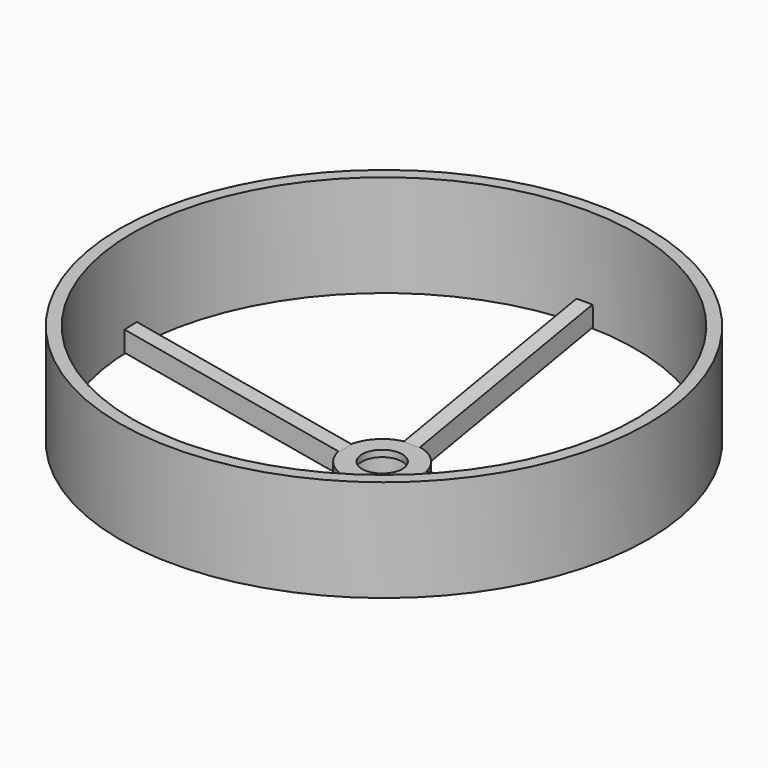
from build123d import *

# Parameters (mm, degrees)
F0_R      = 5.25
F0_R_2    = 4.35
F1_DEPTH  = 4.57
F0_R_3    = 2.75
F2_DEPTH  = 0.889
F5_DEPTH  = 1.375
F6_ANGLE  = -10
F8_COUNT  = 4
F4_R      = 36.1932
F10_DEPTH = 13.97


with BuildPart() as f1:
    # F0 (on Top) → F1 (new body)
    with BuildSketch(Plane.XY):
        Circle(F0_R)
        Circle(F0_R_2, mode=Mode.SUBTRACT)
    extrude(amount=-F1_DEPTH)

    # F0 (on Top) → F2 (join)
    with BuildSketch(Plane.XY):
        Circle(F0_R)
        Circle(F0_R_2, mode=Mode.SUBTRACT)
        Circle(F0_R_2)
        Circle(F0_R_3, mode=Mode.SUBTRACT)
    extrude(amount=-F2_DEPTH)


with BuildPart() as f1_1:
    # F3: moved
    add(f1.part.moved(Location((0, 0, 2.286))))


with BuildPart() as f5:
    # F4 (on Top) → F5 (new body, symmetric)
    with BuildSketch(Plane.XY):
        with BuildLine():
            Line((-1.0923851514, -5.1148943603), (-1.0923851514, -35.4138590546))
            ThreePointArc((-1.0923851514, -35.4138590546), (0, -35.4311610834), (1.0923851514, -35.4138590546))
            Line((1.0923851514, -35.4138590546), (1.0923851514, -5.1148943603))
            ThreePointArc((1.0923851514, -5.1148943603), (0, -5.2997274241), (-1.0923851514, -5.1148943603))
        make_face()
    extrude(amount=F5_DEPTH, both=True)


with BuildPart() as f5_1:
    # F6: moved
    add(f5.part.rotate(Axis((3.4223822877, 0, 0), (1, 0, 0)), F6_ANGLE))


with BuildPart() as f8_1:
    # F8: instance of F5
    add(f5_1.part.rotate(Axis((0, 0, 1.1123134755), (0, 0, -1)), 1 * 360 / F8_COUNT))


with BuildPart() as f8_2:
    # F8: instance of F5
    add(f5_1.part.rotate(Axis((0, 0, 1.1123134755), (0, 0, -1)), 2 * 360 / F8_COUNT))


with BuildPart() as f8_3:
    # F8: instance of F5
    add(f5_1.part.rotate(Axis((0, 0, 1.1123134755), (0, 0, -1)), 3 * 360 / F8_COUNT))


with BuildPart() as f1_2:
    # F9: moved
    add(f1_1.part.moved(Location((0, 0, -6.35))))


with BuildPart() as f8_2_1:
    # F9: moved
    add(f8_2.part.moved(Location((0, 0, -6.35))))


with BuildPart() as f8_1_1:
    # F9: moved
    add(f8_1.part.moved(Location((0, 0, -6.35))))


with BuildPart() as f8_3_1:
    # F9: moved
    add(f8_3.part.moved(Location((0, 0, -6.35))))


with BuildPart() as f5_2:
    # F9: moved
    add(f5_1.part.moved(Location((0, 0, -6.35))))


with BuildPart() as f10:
    # F4 (on Top) → F10 (new body)
    with BuildSketch(Plane.XY):
        with Locations((0, -0.9379610834)):
            Circle(F4_R)
        with BuildLine():
            ThreePointArc((-1.0923851514, -35.4138590546), (-24.0010519221, 23.8356206696), (34.4932, -0.9379610834))
            ThreePointArc((34.4932, -0.9379610834), (24.773581753, -24.9390130055), (1.0923851514, -35.4138590546))
            ThreePointArc((1.0923851514, -35.4138590546), (0, -35.4311610834), (-1.0923851514, -35.4138590546))
        make_face(mode=Mode.SUBTRACT)
    extrude(amount=F10_DEPTH)


with BuildPart() as f10_1:
    # F11: moved
    add(f10.part.moved(Location((0, 1.2507058463, 0.2205331856))))


with BuildPart() as f10_2:
    # F12: moved
    add(f10_1.part.moved(Location((0, 0, -2.032))))


solid = Compound([f1_2.part, f8_2_1.part, f8_1_1.part, f8_3_1.part, f5_2.part, f10_2.part])
